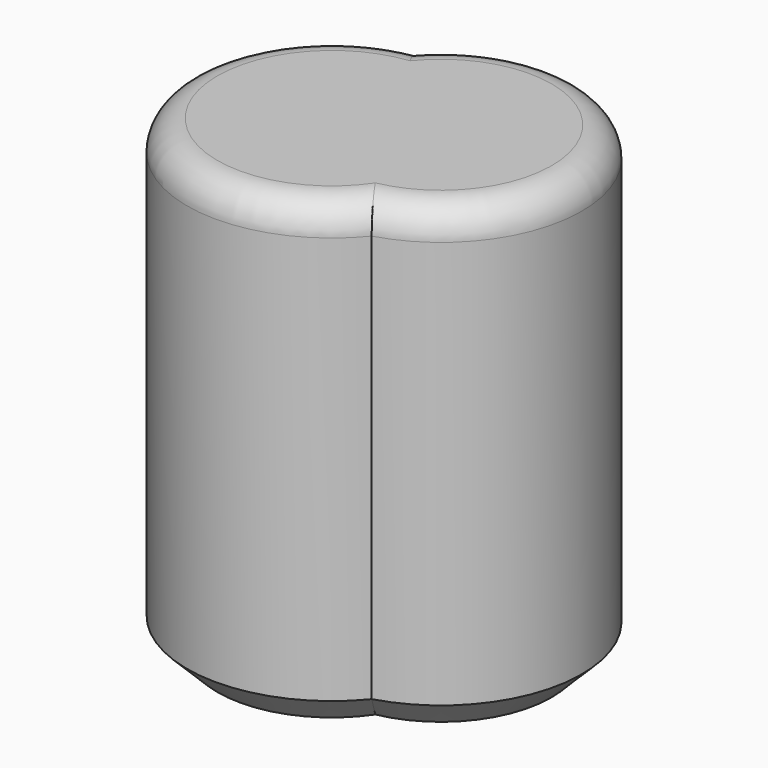
from build123d import *

# Parameters (mm, degrees)
F1_DEPTH = 78.74
F2_R     = 5.08
F3_SIZE  = 5.08


with BuildPart() as f1:
    # F0 (on Top) → F1 (new body)
    with BuildSketch(Plane.XY):
        with BuildLine():
            ThreePointArc((-23.742214, 39.193708), (-39.775667, 2.693222), (0, 0))
            ThreePointArc((0, 0), (13.695812, 35.084423), (-23.742214, 39.193708))
        make_face()
    extrude(amount=F1_DEPTH)

    # F2
    f2_edges = [f1.edges().sort_by_distance(p)[0] for p in [
        (-39.775667, 2.693222, 78.74),
        (13.695812, 35.084423, 78.74),
    ]]
    fillet(f2_edges, radius=F2_R)

    # F3
    f3_edges = [f1.edges().sort_by_distance(p)[0] for p in [
        (-39.775667, 2.693222, 0),
        (13.695812, 35.084423, 0),
    ]]
    chamfer(f3_edges, length=F3_SIZE)


solid = f1.part
